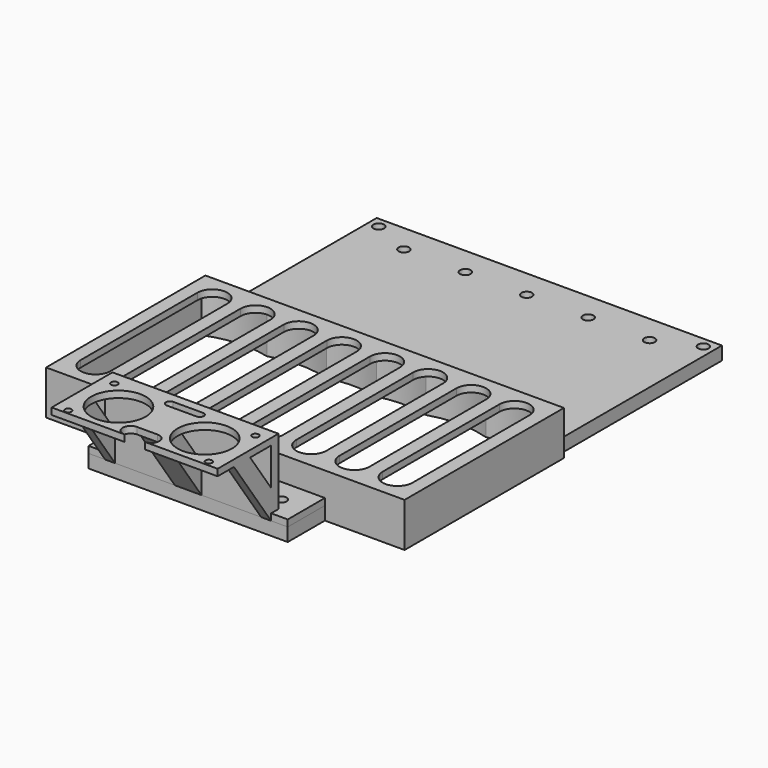
from build123d import *

# Parameters (mm, degrees)
BOX009_W                   = 50
BOX009_H                   = 10
BOX009_DEPTH               = 10
BOX008_W                   = 50
BOX008_H                   = 10
BOX008_DEPTH               = 10
BOX005_W                   = 8
BOX005_H                   = 5
BOX005_DEPTH               = 24.5
BOX005_PLACEMENT_ANGLE     = 35
BOX006_W                   = 3
BOX006_H                   = 5
BOX006_DEPTH               = 24.5
BOX006_PLACEMENT_ANGLE     = 35
BOX007_W                   = 3
BOX007_H                   = 5
BOX007_DEPTH               = 24.5
BOX007_PLACEMENT_ANGLE     = 35
SKETCH003_W                = 50
SKETCH003_H                = 20.3
SKETCH003_R                = 8.2
SKETCH003_R_2              = 1
EXTRUDE003_DEPTH           = 2
EXTRUDE003_PLACEMENT_ANGLE = 180
BOX004_W                   = 50
BOX004_H                   = 2.75
BOX004_DEPTH               = 22
CYLINDER010_R              = 1.6
CYLINDER010_DEPTH          = 10
CYLINDER009_R              = 1.6
CYLINDER009_DEPTH          = 10
BOX010_W                   = 60
BOX010_H                   = 14
BOX010_DEPTH               = 2
SKETCH_R                   = 1.6
EXTRUDE_DEPTH              = 5
CYLINDER007_R              = 1.6
CYLINDER007_DEPTH          = 10
CYLINDER006_R              = 1.6
CYLINDER006_DEPTH          = 10
CYLINDER005_R              = 1.6
CYLINDER005_DEPTH          = 10
CYLINDER004_R              = 1.6
CYLINDER004_DEPTH          = 10
BOX001_W                   = 104
BOX001_H                   = 62
BOX001_DEPTH               = 4
CYLINDER008_R              = 1.6
CYLINDER008_DEPTH          = 10
CYLINDER_R                 = 1.6
CYLINDER_DEPTH             = 10
BOX003_W                   = 60
BOX003_H                   = 14
BOX003_DEPTH               = 4
EXTRUDE002_DEPTH           = 10
BOX_W                      = 108
BOX_H                      = 60
BOX_DEPTH                  = 2
EXTRUDE001_DEPTH           = 16
BOX002_W                   = 108
BOX002_H                   = 60
BOX002_DEPTH               = 11.3


with BuildPart() as obj1:
    # Box009 → Box009 (new body)
    with BuildSketch(Plane(origin=(-77, -71.25, 0), x_dir=(1, 0, 0), z_dir=(0, 0, 1))):
        with Locations((25, 5)):
            Rectangle(BOX009_W, BOX009_H)
    extrude(amount=BOX009_DEPTH)


with BuildPart() as obj2:
    # Box008 → Box008 (new body)
    with BuildSketch(Plane(origin=(-77, -89, 22), x_dir=(1, 0, 0), z_dir=(0, 0, 1))):
        with Locations((25, 5)):
            Rectangle(BOX008_W, BOX008_H)
    extrude(amount=BOX008_DEPTH)


with BuildPart() as center_support:
    # Box005 → Box005 (new body)
    with BuildSketch(Plane.XY):
        with Locations((4, 2.5)):
            Rectangle(BOX005_W, BOX005_H)
    extrude(amount=BOX005_DEPTH)


with BuildPart() as center_support_1:
    # Box005 placement: moved
    add(center_support.part.moved(Location((-56, -74, 0))).rotate(Axis((-56, -74, 0), (1, 0, 0)), BOX005_PLACEMENT_ANGLE))


with BuildPart() as right_support:
    # Box006 → Box006 (new body)
    with BuildSketch(Plane.XY):
        with Locations((1.5, 2.5)):
            Rectangle(BOX006_W, BOX006_H)
    extrude(amount=BOX006_DEPTH)


with BuildPart() as right_support_1:
    # Box006 placement: moved
    add(right_support.part.moved(Location((-30, -74, 0))).rotate(Axis((-30, -74, 0), (1, 0, 0)), BOX006_PLACEMENT_ANGLE))


with BuildPart() as supports001:
    # Box007 → Box007 (new body)
    with BuildSketch(Plane.XY):
        with Locations((1.5, 2.5)):
            Rectangle(BOX007_W, BOX007_H)
    extrude(amount=BOX007_DEPTH)


with BuildPart() as supports001_1:
    # Box007 placement: moved
    add(supports001.part.moved(Location((-77, -74, 0))).rotate(Axis((-77, -74, 0), (1, 0, 0)), BOX007_PLACEMENT_ANGLE))

    # Fusion: union Center Support, Right Support
    add(center_support_1.part)
    add(right_support_1.part)

    # Cut013: cut obj2
    add(obj2.part, mode=Mode.SUBTRACT)

    # Cut014: cut obj1
    add(obj1.part, mode=Mode.SUBTRACT)


with BuildPart() as obj3:
    # Sketch003 → Extrude003 (new body)
    with BuildSketch(Plane.XY):
        Rectangle(SKETCH003_W, SKETCH003_H)
        with Locations((-13, 0)):
            Circle(SKETCH003_R, mode=Mode.SUBTRACT)
        with Locations((13, 0)):
            Circle(SKETCH003_R, mode=Mode.SUBTRACT)
        with Locations((-21.1, 8.6)):
            Circle(SKETCH003_R_2, mode=Mode.SUBTRACT)
        with Locations((-21.4, -8.6)):
            Circle(SKETCH003_R_2, mode=Mode.SUBTRACT)
        with Locations((21.1, -8.6)):
            Circle(SKETCH003_R_2, mode=Mode.SUBTRACT)
        with Locations((21, 8.9)):
            Circle(SKETCH003_R_2, mode=Mode.SUBTRACT)
        with BuildLine():
            ThreePointArc((-3.1, 10.15), (-5.5, 7.75), (-3.1, 5.35))
            Line((-3.1, 5.35), (3.1, 5.35))
            ThreePointArc((3.1, 5.35), (5.5, 7.75), (3.1, 10.15))
            Line((-3.1, 10.15), (3.1, 10.15))
        make_face(mode=Mode.SUBTRACT)
        with BuildLine():
            ThreePointArc((-4.5, -7.55), (-5.7, -8.75), (-4.5, -9.95))
            Line((-4.5, -9.95), (4.5, -9.95))
            ThreePointArc((4.5, -9.95), (5.7, -8.75), (4.5, -7.55))
            Line((-4.5, -7.55), (4.5, -7.55))
        make_face(mode=Mode.SUBTRACT)
    extrude(amount=EXTRUDE003_DEPTH)


with BuildPart() as obj3_1:
    # Extrude003 placement: moved
    add(obj3.part.moved(Location((-52, -84, 20))).rotate(Axis((-52, -84, 20), (0, 0, 1)), EXTRUDE003_PLACEMENT_ANGLE))


with BuildPart() as wall:
    # Box004 → Box004 (new body)
    with BuildSketch(Plane(origin=(-77, -74, 0), x_dir=(1, 0, 0), z_dir=(0, 0, 1))):
        with Locations((25, 1.375)):
            Rectangle(BOX004_W, BOX004_H)
    extrude(amount=BOX004_DEPTH)


with BuildPart() as cylinder010:
    # Cylinder010 → Cylinder010 (new body)
    with BuildSketch(Plane(origin=(-74.5, -67, -1), x_dir=(1, 0, 0), z_dir=(0, 0, 1))):
        Circle(CYLINDER010_R)
    extrude(amount=CYLINDER010_DEPTH)


with BuildPart() as cylinder009:
    # Cylinder009 → Cylinder009 (new body)
    with BuildSketch(Plane(origin=(-29.5, -67, -1), x_dir=(1, 0, 0), z_dir=(0, 0, 1))):
        Circle(CYLINDER009_R)
    extrude(amount=CYLINDER009_DEPTH)


with BuildPart() as sensor_platform:
    # Box010 → Box010 (new body)
    with BuildSketch(Plane(origin=(-82, -74, 0), x_dir=(1, 0, 0), z_dir=(0, 0, 1))):
        with Locations((30, 7)):
            Rectangle(BOX010_W, BOX010_H)
    extrude(amount=BOX010_DEPTH)

    # Cut015: cut Cylinder009
    add(cylinder009.part, mode=Mode.SUBTRACT)

    # Cut016: cut Cylinder010
    add(cylinder010.part, mode=Mode.SUBTRACT)

    # Fusion003: union Supports001, obj3, Wall
    add(supports001_1.part)
    add(obj3_1.part)
    add(wall.part)


with BuildPart() as sensor_platform_1:
    # Fusion003 placement: moved
    add(sensor_platform.part.moved(Location((0, 0, 4))))


with BuildPart() as extrude_body:
    # Sketch → Extrude (new body)
    with BuildSketch(Plane.XY):
        with Locations((-89, 8.5)):
            Circle(SKETCH_R)
        with Locations((-52, 8.5)):
            Circle(SKETCH_R)
        with Locations((-52, 53.5)):
            Circle(SKETCH_R)
        with Locations((-89, 53.5)):
            Circle(SKETCH_R)
        with Locations((-15, 8.5)):
            Circle(SKETCH_R)
        with Locations((-15, 53.5)):
            Circle(SKETCH_R)
        with Locations((-33.5, 53.5)):
            Circle(SKETCH_R)
        with Locations((-33.5, 8.5)):
            Circle(SKETCH_R)
        with Locations((-70.5, 53.5)):
            Circle(SKETCH_R)
        with Locations((-70.5, 8.5)):
            Circle(SKETCH_R)
    extrude(amount=EXTRUDE_DEPTH)


with BuildPart() as mount_point003:
    # Cylinder007 → Cylinder007 (new body)
    with BuildSketch(Plane(origin=(-3.1, 58.9, 0), x_dir=(1, 0, 0), z_dir=(0, 0, 1))):
        Circle(CYLINDER007_R)
    extrude(amount=CYLINDER007_DEPTH)


with BuildPart() as mount_point002:
    # Cylinder006 → Cylinder006 (new body)
    with BuildSketch(Plane(origin=(-100.9, 58.9, 0), x_dir=(1, 0, 0), z_dir=(0, 0, 1))):
        Circle(CYLINDER006_R)
    extrude(amount=CYLINDER006_DEPTH)


with BuildPart() as mount_point001:
    # Cylinder005 → Cylinder005 (new body)
    with BuildSketch(Plane(origin=(-100.9, 3.1, 0), x_dir=(1, 0, 0), z_dir=(0, 0, 1))):
        Circle(CYLINDER005_R)
    extrude(amount=CYLINDER005_DEPTH)


with BuildPart() as mount_point:
    # Cylinder004 → Cylinder004 (new body)
    with BuildSketch(Plane(origin=(-2.6, 3.1, 0), x_dir=(1, 0, 0), z_dir=(0, 0, 1))):
        Circle(CYLINDER004_R)
    extrude(amount=CYLINDER004_DEPTH)


with BuildPart() as platform:
    # Box001 → Box001 (new body)
    with BuildSketch(Plane(origin=(-104, 0, 0), x_dir=(1, 0, 0), z_dir=(0, 0, 1))):
        with Locations((52, 31)):
            Rectangle(BOX001_W, BOX001_H)
    extrude(amount=BOX001_DEPTH)

    # Cut005: cut Mount Point
    add(mount_point.part, mode=Mode.SUBTRACT)

    # Cut006: cut Mount Point001
    add(mount_point001.part, mode=Mode.SUBTRACT)

    # Cut007: cut Mount Point002
    add(mount_point002.part, mode=Mode.SUBTRACT)

    # Cut008: cut Mount Point003
    add(mount_point003.part, mode=Mode.SUBTRACT)

    # Cut: cut Extrude body
    add(extrude_body.part, mode=Mode.SUBTRACT)


with BuildPart() as cylinder008:
    # Cylinder008 → Cylinder008 (new body)
    with BuildSketch(Plane(origin=(-74.5, -67, -1), x_dir=(1, 0, 0), z_dir=(0, 0, 1))):
        Circle(CYLINDER008_R)
    extrude(amount=CYLINDER008_DEPTH)


with BuildPart() as cylinder:
    # Cylinder → Cylinder (new body)
    with BuildSketch(Plane(origin=(-29.5, -67, -1), x_dir=(1, 0, 0), z_dir=(0, 0, 1))):
        Circle(CYLINDER_R)
    extrude(amount=CYLINDER_DEPTH)


with BuildPart() as front_magnet_holder:
    # Box003 → Box003 (new body)
    with BuildSketch(Plane(origin=(-82, -74, 0), x_dir=(1, 0, 0), z_dir=(0, 0, 1))):
        with Locations((30, 7)):
            Rectangle(BOX003_W, BOX003_H)
    extrude(amount=BOX003_DEPTH)

    # Cut011: cut Cylinder
    add(cylinder.part, mode=Mode.SUBTRACT)

    # Cut012: cut Cylinder008
    add(cylinder008.part, mode=Mode.SUBTRACT)


with BuildPart() as extrude002:
    # Sketch002 → Extrude002 (new body)
    with BuildSketch(Plane.XY.offset(9)):
        with BuildLine():
            ThreePointArc((-2, -8), (-6.5, -3.5), (-11, -8))
            Line((-11, -8), (-11, -52))
            ThreePointArc((-11, -52), (-6.5, -56.5), (-2, -52))
            Line((-2, -8), (-2, -52))
        make_face()
        with BuildLine():
            ThreePointArc((-28, -8), (-32.5, -3.5), (-37, -8))
            Line((-37, -8), (-37, -52))
            ThreePointArc((-37, -52), (-32.5, -56.5), (-28, -52))
            Line((-28, -8), (-28, -52))
        make_face()
        with BuildLine():
            ThreePointArc((-67, -8), (-71.5, -3.5), (-76, -8))
            Line((-76, -8), (-76, -52))
            ThreePointArc((-76, -52), (-71.5, -56.5), (-67, -52))
            Line((-67, -8), (-67, -52))
        make_face()
        with BuildLine():
            ThreePointArc((-15, -8), (-19.5, -3.5), (-24, -8))
            Line((-24, -8), (-24, -52))
            ThreePointArc((-24, -52), (-19.5, -56.5), (-15, -52))
            Line((-15, -8), (-15, -52))
        make_face()
        with BuildLine():
            ThreePointArc((-41, -8), (-45.5, -3.5), (-50, -8))
            Line((-50, -8), (-50, -52))
            ThreePointArc((-50, -52), (-45.5, -56.5), (-41, -52))
            Line((-41, -8), (-41, -52))
        make_face()
        with BuildLine():
            ThreePointArc((-80, -8), (-84.5, -3.5), (-89, -8))
            Line((-89, -8), (-89, -52))
            ThreePointArc((-89, -52), (-84.5, -56.5), (-80, -52))
            Line((-80, -8), (-80, -52))
        make_face()
        with BuildLine():
            ThreePointArc((-93, -8), (-97.5, -3.5), (-102, -8))
            Line((-102, -8), (-102, -52))
            ThreePointArc((-102, -52), (-97.5, -56.5), (-93, -52))
            Line((-93, -8), (-93, -52))
        make_face()
        with BuildLine():
            ThreePointArc((-54, -8), (-58.5, -3.5), (-63, -8))
            Line((-63, -8), (-63, -52))
            ThreePointArc((-63, -52), (-58.5, -56.5), (-54, -52))
            Line((-54, -8), (-54, -52))
        make_face()
    extrude(amount=EXTRUDE002_DEPTH)


with BuildPart() as lid:
    # Box → Box (new body)
    with BuildSketch(Plane(origin=(-106, -60, 9.8), x_dir=(1, 0, 0), z_dir=(0, 0, 1))):
        with Locations((54, 30)):
            Rectangle(BOX_W, BOX_H)
    extrude(amount=BOX_DEPTH)

    # Cut010: cut Extrude002
    add(extrude002.part, mode=Mode.SUBTRACT)


with BuildPart() as lid_1:
    # Cut010 placement: moved
    add(lid.part.moved(Location((0, 0, 1.5))))


with BuildPart() as extrude001:
    # Sketch001 → Extrude001 (new body)
    with BuildSketch(Plane.XY):
        with BuildLine():
            Line((51.7, -25.614483), (51.7, 25.614483))
            ThreePointArc((51.7, 25.614483), (42.450417, 27.752086), (33, 26.85))
            ThreePointArc((33, 26.85), (24, 28.231824), (15, 26.85))
            ThreePointArc((15, 26.85), (7.5, 27.816448), (0, 26.85))
            ThreePointArc((0, 26.85), (-7.5, 27.816448), (-15, 26.85))
            ThreePointArc((-15, 26.85), (-24, 28.231824), (-33, 26.85))
            ThreePointArc((-33, 26.85), (-42.450417, 27.752086), (-51.7, 25.614483))
            Line((-51.7, 25.614483), (-51.7, -25.614483))
            ThreePointArc((-51.7, -25.614483), (-42.450417, -27.752086), (-33, -26.85))
            ThreePointArc((-33, -26.85), (-24, -28.231824), (-15, -26.85))
            ThreePointArc((-15, -26.85), (-7.5, -27.816448), (0, -26.85))
            ThreePointArc((0, -26.85), (7.5, -27.816448), (15, -26.85))
            ThreePointArc((15, -26.85), (24, -28.231824), (33, -26.85))
            ThreePointArc((33, -26.85), (42.450417, -27.752086), (51.7, -25.614483))
        make_face()
    extrude(amount=EXTRUDE001_DEPTH)


with BuildPart() as bottom_platform:
    # Box002 → Box002 (new body)
    with BuildSketch(Plane(origin=(-54, -30, 0), x_dir=(1, 0, 0), z_dir=(0, 0, 1))):
        with Locations((54, 30)):
            Rectangle(BOX002_W, BOX002_H)
    extrude(amount=BOX002_DEPTH)

    # Cut009: cut Extrude001
    add(extrude001.part, mode=Mode.SUBTRACT)


with BuildPart() as bottom_platform_1:
    # Cut009 placement: moved
    add(bottom_platform.part.moved(Location((-52, -30, 0))))

    # Fusion002: union Lid
    add(lid_1.part)

    # Fusion004: union Platform, Front Magnet Holder
    add(platform.part)
    add(front_magnet_holder.part)


solid = Compound([sensor_platform_1.part, bottom_platform_1.part])
